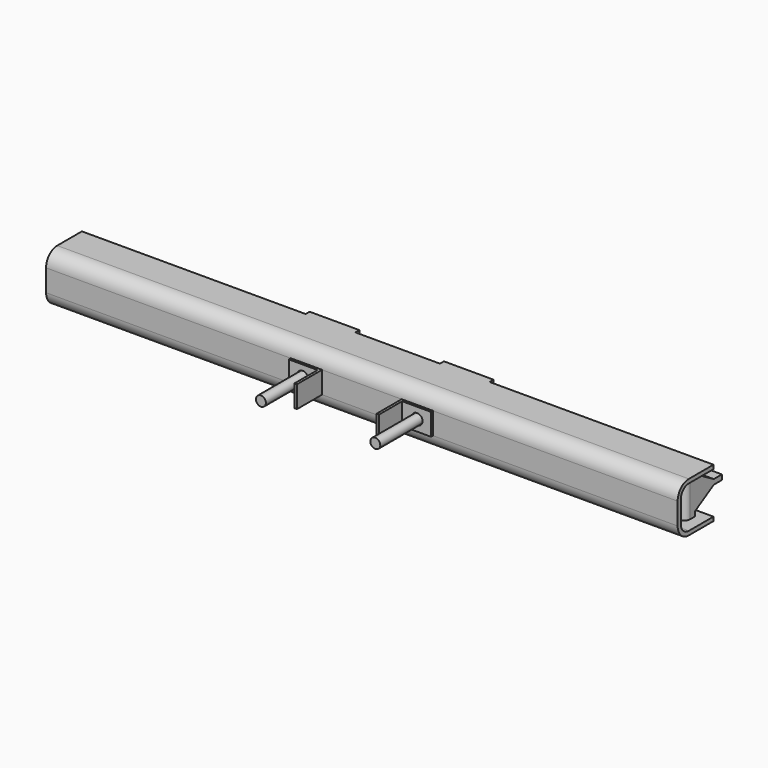
from build123d import *

# Parameters (mm, degrees)
F1_DEPTH       = 635
F3_DEPTH       = 22
F4_W           = 100
F4_H           = 100
F5_DEPTH       = 10
F6_R           = 11
F7_DEPTH       = 8
F7_DEPTH_BACK  = 63.001
F9_DEPTH       = 50
F9_DEPTH_BACK  = 50
F10_R          = 10
F11_DEPTH      = 200
F14_DEPTH      = 12
F14_DEPTH_BACK = 12
F17_DEPTH      = 12
F17_DEPTH_BACK = 12
F18_W          = 24
F18_H          = 30
F19_DEPTH      = 5


with BuildPart() as f1:
    # F0 (on Right) → F1 (new body, symmetric)
    with BuildSketch(Plane.YZ):
        with BuildLine():
            Line((90, 42), (90, 50))
            Line((90, 50), (28, 50))
            ThreePointArc((28, 50), (8.2010101268, 41.7989898732), (0, 22))
            Line((0, 22), (0, -22))
            ThreePointArc((0, -22), (8.2010101268, -41.7989898732), (28, -50))
            Line((28, -50), (90, -50))
            Line((90, -50), (90, -42))
            Line((90, -42), (28, -42))
            ThreePointArc((28, -42), (13.8578643763, -36.1421356237), (8, -22))
            Line((8, -22), (8, 22))
            ThreePointArc((8, 22), (13.8578643763, 36.1421356237), (28, 42))
            Line((28, 42), (90, 42))
        make_face()
    extrude(amount=F1_DEPTH, both=True)

    # F2 (on Top) → F3 (join, symmetric)
    with BuildSketch(Plane.XY):
        Polygon((-80, 0), (-143, 0), (-143, -5), (-85, -5), (-85, -63), (-80, -63), align=None)
        Polygon((80, -63), (85, -63), (85, -5), (143, -5), (143, 0), (80, 0), align=None)
    extrude(amount=F3_DEPTH, both=True)

    # F4 (on face) → F5 (join)
    with BuildSketch(Plane(origin=(0, 90, 0), x_dir=(-1, 0, 0), z_dir=(0, 1, 0))):
        with Locations((-135, 0)):
            Rectangle(F4_W, F4_H)
        with Locations((135, 0)):
            Rectangle(F4_W, F4_H)
    extrude(amount=F5_DEPTH)

    # F6 (on Front) → F7 (cut, two sides)
    with BuildSketch(Plane.XZ) as f7_sk:
        with Locations((-115, 0)):
            Circle(F6_R)
        with Locations((115, 0)):
            Circle(F6_R)
    extrude(amount=-F7_DEPTH, mode=Mode.SUBTRACT)
    extrude(f7_sk.sketch, amount=F7_DEPTH_BACK, mode=Mode.SUBTRACT)

    # F8 (on Top) → F9 (join, two sides)
    with BuildSketch(Plane.XY) as f9_sk:
        with BuildLine():
            Line((-612, 72), (-612, 60))
            ThreePointArc((-612, 60), (-600, 48), (-588, 60))
            Line((-588, 60), (-588, 72))
            Line((-588, 72), (-612, 72))
        make_face()
        with BuildLine():
            ThreePointArc((588, 60), (600, 48), (612, 60))
            Line((612, 60), (612, 72))
            Line((612, 72), (588, 72))
            Line((588, 72), (588, 60))
        make_face()
    extrude(amount=F9_DEPTH)
    extrude(f9_sk.sketch, amount=-F9_DEPTH_BACK)

    # F10 (on face) → F11 (join)
    with BuildSketch(Plane.XZ.offset(-90)):
        with Locations((-115, 0)):
            Circle(F10_R)
        with Locations((115, 0)):
            Circle(F10_R)
    extrude(amount=F11_DEPTH)

    # F13 (on offset) → F14 (join, two sides)
    with BuildSketch(Plane.YZ.offset(600)) as f14_sk:
        Polygon((60, 40), (60, -40), (128, 0), align=None)
    extrude(amount=F14_DEPTH)
    extrude(f14_sk.sketch, amount=-F14_DEPTH_BACK)

    # F16 (on offset) → F17 (join, two sides)
    with BuildSketch(Plane.YZ.offset(-600)) as f17_sk:
        Polygon((60, -40), (128, 0), (60, 40), align=None)
    extrude(amount=F17_DEPTH)
    extrude(f17_sk.sketch, amount=-F17_DEPTH_BACK)

    # F18 (on Top) → F19 (join, symmetric)
    with BuildSketch(Plane.XY):
        with Locations((-600, 125)):
            Rectangle(F18_W, F18_H)
        with Locations((600, 125)):
            Rectangle(F18_W, F18_H)
    extrude(amount=F19_DEPTH, both=True)


solid = f1.part
